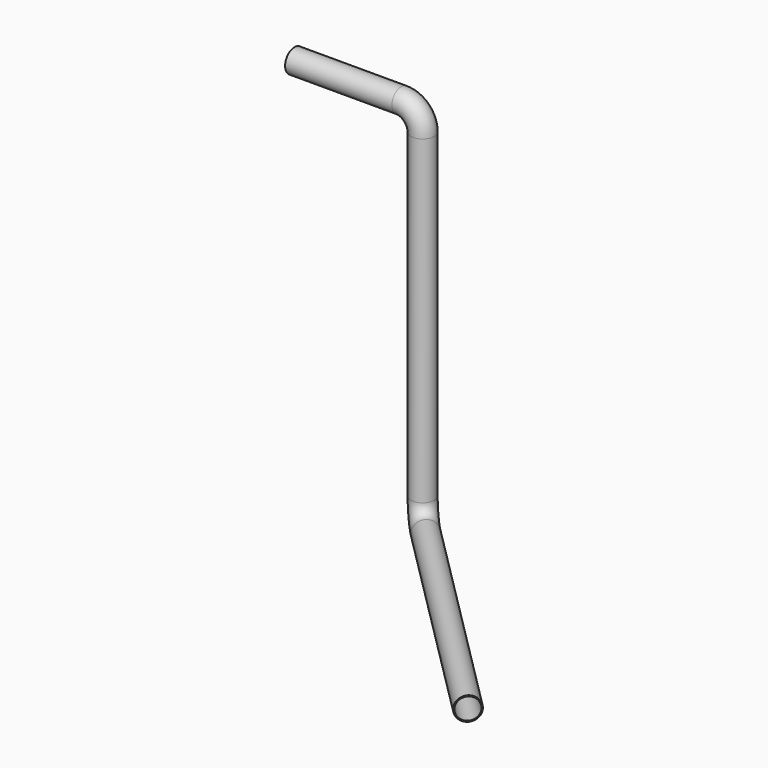
from build123d import *

# Parameters (mm, degrees)
F2_R   = 55
F2_R_2 = 50


with BuildPart() as f5:
    # F5: sweep along a path in F0, F4
    with BuildLine(Plane.XZ) as f5_path:
        Line((-600, 143.3151227236), (-100, 143.3151227236))
        ThreePointArc((-100, 143.3151227236), (-29.2893218813, 114.0258008422), (0, 43.3151227236))
    with BuildLine(Plane(origin=(0, 0, 0), x_dir=(-0.7071067812, 0.7071067812, 0), z_dir=(0.7071067812, 0.7071067812, 0))) as f5_path_2:
        Line((0, 43.3151227236), (0, -1456.6848772764))
        ThreePointArc((0, -1456.6848772764), (-29.2893218813, -1527.3955553951), (-100, -1556.6848772764))
        Line((-100, -1556.6848772764), (-1500, -1556.6848772764))
    # F2 (on plane+point) → F5 (sweep)
    with BuildSketch(Plane.YZ.offset(-600)):
        with Locations((0, 143.3151227236)):
            Circle(F2_R)
        with Locations((0, 143.3151227236)):
            Circle(F2_R_2, mode=Mode.SUBTRACT)
    sweep(path=f5_path.line + f5_path_2.line)


solid = f5.part
